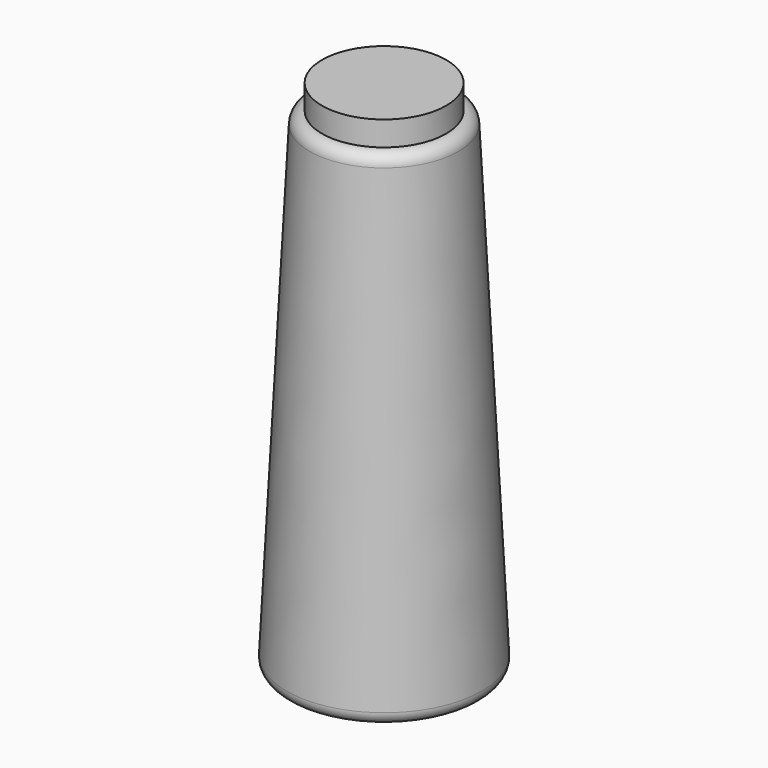
from build123d import *

# Parameters (mm, degrees)
F0_R     = 50.8
F2_R     = 38.1
F4_R     = 6.35
F5_DEPTH = 12.7


with BuildPart() as f3:
    # F0 (on Top) → F3 section 0
    with BuildSketch(Plane.XY):
        Circle(F0_R)
    # F2 (on offset) → F3 section 1
    with BuildSketch(Plane.XY.offset(254)):
        Circle(F2_R)
    loft()

    # F4
    f4_edges = [f3.edges().sort_by_distance(p)[0] for p in [
        (-50.8, 0, 0),
        (44.45, 0, 127),
        (-38.1, 0, 254),
    ]]
    fillet(f4_edges, radius=F4_R)

    # F5 (add): a face of the model
    f5_faces = [f3.faces().sort_by_distance(p)[0] for p in [
        (0, 0, 254),
    ]]
    extrude(f5_faces, amount=F5_DEPTH)


solid = f3.part
